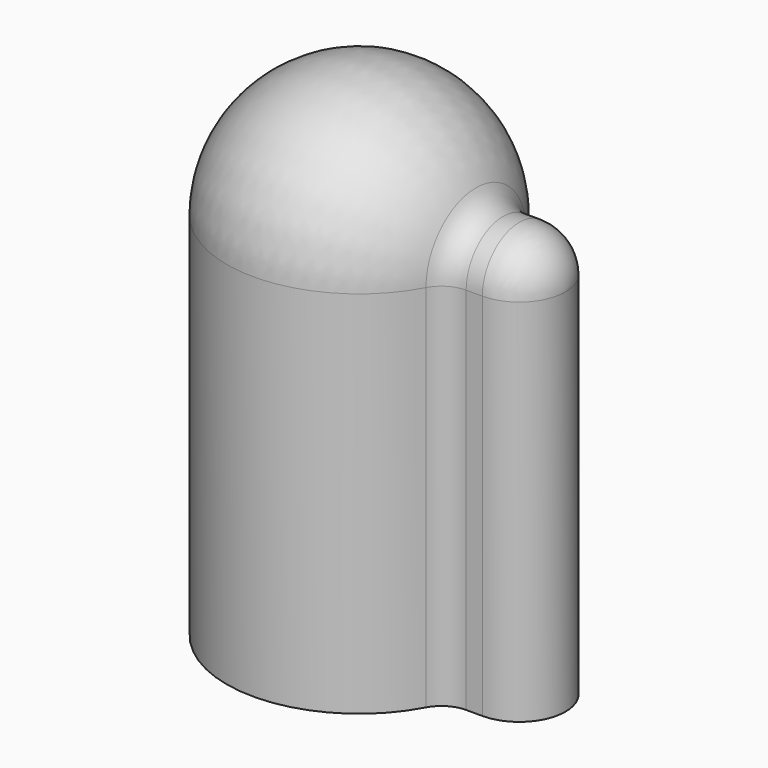
from build123d import *

# Parameters (mm, degrees)
F1_DEPTH = 60
F4_ANGLE = -180


with BuildPart() as f1:
    # F0 (on Top) → F1 (new body)
    with BuildSketch(Plane.XY):
        with BuildLine():
            ThreePointArc((23.366643, 7.5), (20.796862, 8.210918), (18.957842, 10.141509))
            ThreePointArc((18.957842, 10.141509), (-21.5, 0), (18.957842, -10.141509))
            ThreePointArc((18.957842, -10.141509), (20.796862, -8.210918), (23.366643, -7.5))
            Line((23.366643, -7.5), (26, -7.5))
            ThreePointArc((26, -7.5), (33.5, 0), (26, 7.5))
            Line((26, 7.5), (23.366643, 7.5))
        make_face()
        with BuildLine():
            ThreePointArc((17.959955, -8.8), (-20, 0), (17.959955, 8.8))
            ThreePointArc((17.959955, 8.8), (19.804193, 6.757359), (22.449944, 6))
            Line((22.449944, 6), (26, 6))
            ThreePointArc((26, 6), (32, 0), (26, -6))
            Line((26, -6), (22.449944, -6))
            ThreePointArc((22.449944, -6), (19.804193, -6.757359), (17.959955, -8.8))
        make_face(mode=Mode.SUBTRACT)
    extrude(amount=F1_DEPTH)

    # F3 (on offset) → F4 (revolve)
    with BuildSketch(Plane.XY.offset(60)):
        with BuildLine():
            ThreePointArc((17.959955, -8.8), (-4.516685, -19.483315), (-20, 0))
            Line((-20, 0), (-21.5, 0))
            ThreePointArc((-21.5, 0), (-5.227638, -20.854779), (18.957842, -10.141509))
            ThreePointArc((18.957842, -10.141509), (20.796862, -8.210918), (23.366643, -7.5))
            Line((23.366643, -7.5), (26, -7.5))
            ThreePointArc((26, -7.5), (31.303301, -5.303301), (33.5, 0))
            Line((33.5, 0), (32, 0))
            ThreePointArc((32, 0), (30.242641, -4.242641), (26, -6))
            Line((26, -6), (22.449944, -6))
            ThreePointArc((22.449944, -6), (19.804193, -6.757359), (17.959955, -8.8))
        make_face()
    revolve(axis=Axis((6, 0, 60), (1, 0, 0)), revolution_arc=F4_ANGLE)


solid = f1.part
